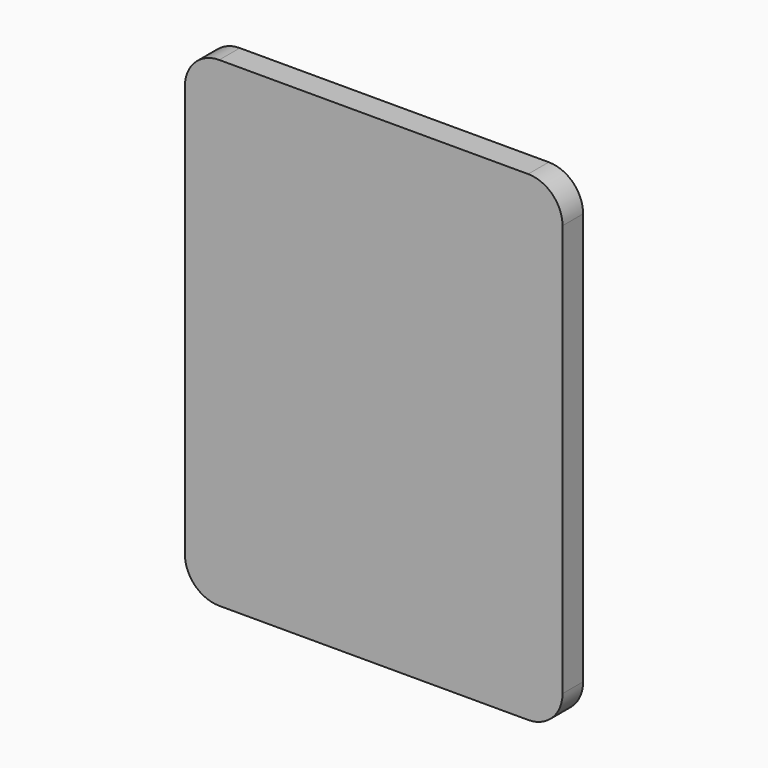
from build123d import *

# Parameters (mm, degrees)
F1_DEPTH = 15


with BuildPart() as f1:
    # F0 (on Front) → F1 (new body)
    with BuildSketch(Plane.XZ):
        with BuildLine():
            ThreePointArc((122.222222, 133.330846), (116.364358, 147.472981), (102.222222, 153.330846))
            Line((102.222222, 153.330846), (-77.777778, 153.330846))
            ThreePointArc((-77.777778, 153.330846), (-91.919913, 147.472981), (-97.777778, 133.330846))
            Line((-97.777778, 133.330846), (-97.777778, -106.646764))
            Line((-97.777778, -106.646764), (-97.777778, -106.669154))
            ThreePointArc((-97.777778, -106.669154), (-91.919913, -120.81129), (-77.777778, -126.669154))
            Line((-77.777778, -126.669154), (102.222222, -126.669154))
            ThreePointArc((102.222222, -126.669154), (116.364358, -120.81129), (122.222222, -106.669154))
            Line((122.222222, -106.669154), (122.222222, 133.330846))
        make_face()
    extrude(amount=-F1_DEPTH)


solid = f1.part
